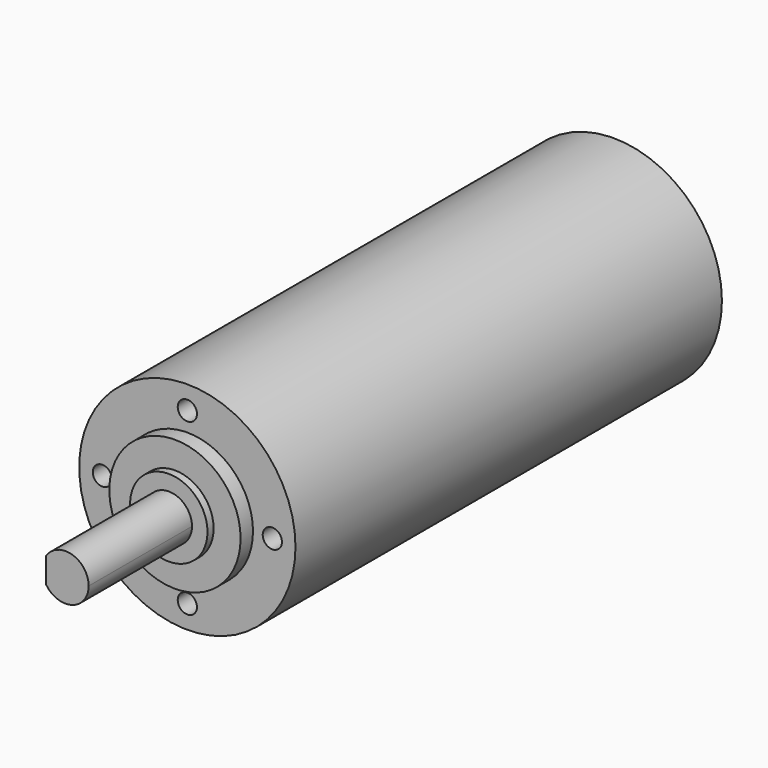
from build123d import *

# Parameters (mm, degrees)
F0_R     = 13.9954
F1_DEPTH = 31.496
F2_DEPTH = 37.4904
F4_DEPTH = 19.7104
F3_R     = 5.0038
F5_DEPTH = 2.9972
F3_R_2   = 8.4963
F6_DEPTH = 2.0066
F7_D     = 2.4892
F7_DEPTH = 5.9944
F7_TIP   = 0.7478311264


with BuildPart() as f1:
    # F0 (on Front) → F1 (new body)
    with BuildSketch(Plane.XZ):
        Circle(F0_R)
    extrude(amount=F1_DEPTH)

    # F2 (add): a face of the model
    f2_faces = [f1.faces().sort_by_distance(p)[0] for p in [
        (0, 0, 0),
    ]]
    extrude(f2_faces, amount=F2_DEPTH)

    # F3 (on face) → F4 (join)
    with BuildSketch(Plane.XZ.offset(31.496)):
        with BuildLine():
            ThreePointArc((-2.5146, -1.6309490121), (0.8504259874, -2.8740186986), (2.9972, 0))
            ThreePointArc((2.9972, 0), (0.8504259874, 2.8740186986), (-2.5146, 1.6309490121))
            Line((-2.5146, 1.6309490121), (-2.5146, -1.6309490121))
        make_face()
    extrude(amount=F4_DEPTH)

    # F3 (on face) → F5 (join)
    with BuildSketch(Plane.XZ.offset(31.496)):
        Circle(F3_R)
        with BuildLine():
            ThreePointArc((-2.5146, 1.6309490121), (0.8504259874, 2.8740186986), (2.9972, 0))
            ThreePointArc((2.9972, 0), (0.8504259874, -2.8740186986), (-2.5146, -1.6309490121))
            ThreePointArc((-2.5146, -1.6309490121), (-2.9972, 0), (-2.5146, 1.6309490121))
        make_face(mode=Mode.SUBTRACT)
        with BuildLine():
            Line((-2.5146, -1.6309490121), (-2.5146, 1.6309490121))
            ThreePointArc((-2.5146, 1.6309490121), (-2.9972, 0), (-2.5146, -1.6309490121))
        make_face()
    extrude(amount=F5_DEPTH)

    # F3 (on face) → F6 (join)
    with BuildSketch(Plane.XZ.offset(31.496)):
        Circle(F3_R_2)
        Circle(F3_R, mode=Mode.SUBTRACT)
    extrude(amount=F6_DEPTH)

    # F7
    with Locations(Plane.XZ.offset(31.496)):
        with Locations((10.9982, 0), (0, -10.9982), (0, 10.9982), (-10.9982, 0)):
            Hole(F7_D / 2, depth=F7_DEPTH)
            with Locations((0, 0, -(F7_DEPTH + F7_TIP / 2))):  # 118° drill point
                Cone(0, F7_D / 2, F7_TIP, mode=Mode.SUBTRACT)


solid = f1.part
